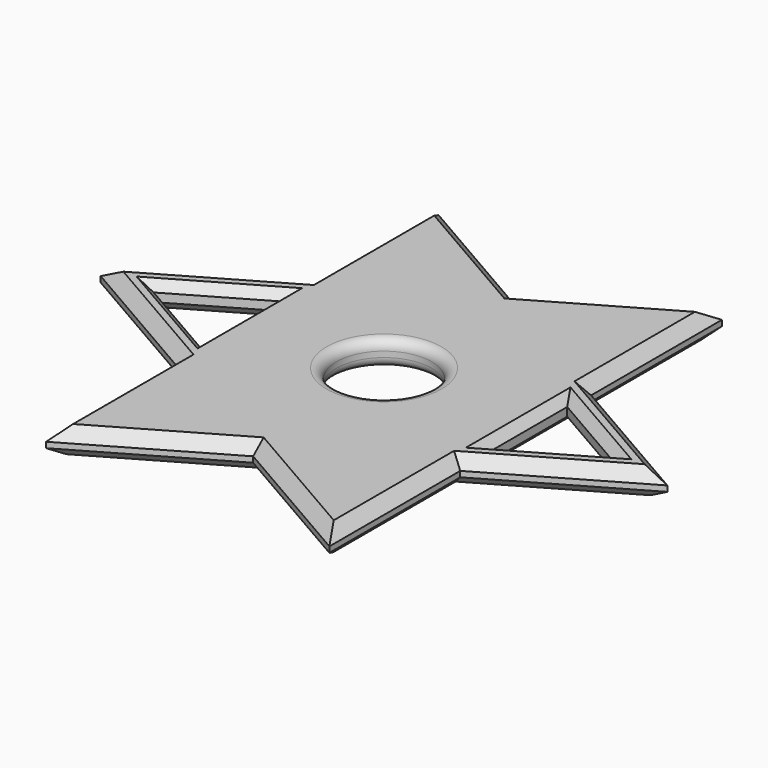
from build123d import *

# Parameters (mm, degrees)
F0_R     = 4.2591952999
F1_DEPTH = 2.286
F2_SIZE  = 1.016
F3_R     = 0.889
F4_SIZE  = 0.762
F5_SIZE  = 0.762


with BuildPart() as f1:
    # F0 (on Top) → F1 (new body)
    with BuildSketch(Plane.XY):
        Polygon((0, 14.6646975499), (-12.700000617, 21.9970463248), (-12.700000617, 7.3323487749), align=None)
        Polygon((12.700000617, 21.9970463248), (0, 14.6646975499), (12.700000617, 7.3323487749), align=None)
        Polygon((12.700000617, 7.3323487749), (0, 14.6646975499), (-12.700000617, 7.3323487749), (-12.700000617, -7.3323487749), (0, -14.6646975499), (12.700000617, -7.3323487749), align=None)
        Circle(F0_R, mode=Mode.SUBTRACT)
        Polygon((-12.700000617, -7.3323487749), (-12.700000617, 7.3323487749), (-25.400001234, 0), align=None)
        Polygon((-20.6551154208, 0), (-12.7952113226, 4.5379177469), (-12.7952113226, -4.5379177469), align=None, mode=Mode.SUBTRACT)
        Polygon((25.400001234, 0), (12.700000617, 7.3323487749), (12.700000617, -7.3323487749), align=None)
        Polygon((12.7952113226, -4.5379177469), (12.7952113226, 4.5379177469), (20.6551154208, 0), align=None, mode=Mode.SUBTRACT)
        Polygon((0, -14.6646975499), (-12.700000617, -7.3323487749), (-12.700000617, -21.9970463248), align=None)
        Polygon((12.700000617, -21.9970463248), (12.700000617, -7.3323487749), (0, -14.6646975499), align=None)
    extrude(amount=F1_DEPTH)

    # F2
    f2_edges = [f1.edges().sort_by_distance(p)[0] for p in [
        (-6.35, 18.330872, 2.286),
        (-12.700001, 14.664698, 2.286),
        (-19.050001, 3.666174, 2.286),
        (-19.050001, -3.666174, 2.286),
        (-12.700001, -14.664698, 2.286),
        (-6.35, -18.330872, 2.286),
        (6.35, -18.330872, 2.286),
        (12.700001, -14.664698, 2.286),
        (19.050001, -3.666174, 2.286),
        (19.050001, 3.666174, 2.286),
        (12.700001, 14.664698, 2.286),
        (6.35, 18.330872, 2.286),
    ]]
    chamfer(f2_edges, length=F2_SIZE)

    # F3
    f3_edges = [f1.edges().sort_by_distance(p)[0] for p in [
        (-4.259195, 0, 0),
        (-4.259195, 0, 2.286),
    ]]
    fillet(f3_edges, radius=F3_R)

    # F4
    f4_edges = [f1.edges().sort_by_distance(p)[0] for p in [
        (-6.35, -18.330872, 0),
        (6.35, -18.330872, 0),
        (12.700001, -14.664698, 0),
        (19.050001, -3.666174, 0),
        (19.050001, 3.666174, 0),
        (12.700001, 14.664698, 0),
        (6.35, 18.330872, 0),
        (-6.35, 18.330872, 0),
        (-12.700001, 14.664698, 0),
        (-19.050001, 3.666174, 0),
        (-19.050001, -3.666174, 0),
        (-12.700001, -14.664698, 0),
    ]]
    chamfer(f4_edges, length=F4_SIZE)

    # F5
    f5_edges = [f1.edges().sort_by_distance(p)[0] for p in [
        (-16.725163, 2.268959, 2.286),
        (-12.795211, 0, 2.286),
        (-16.725163, -2.268959, 2.286),
        (12.795211, 0, 2.286),
        (16.725163, 2.268959, 2.286),
        (16.725163, -2.268959, 2.286),
        (16.725163, 2.268959, 0),
        (12.795211, 0, 0),
        (16.725163, -2.268959, 0),
        (-16.725163, 2.268959, 0),
        (-16.725163, -2.268959, 0),
        (-12.795211, 0, 0),
    ]]
    chamfer(f5_edges, length=F5_SIZE)


solid = f1.part
